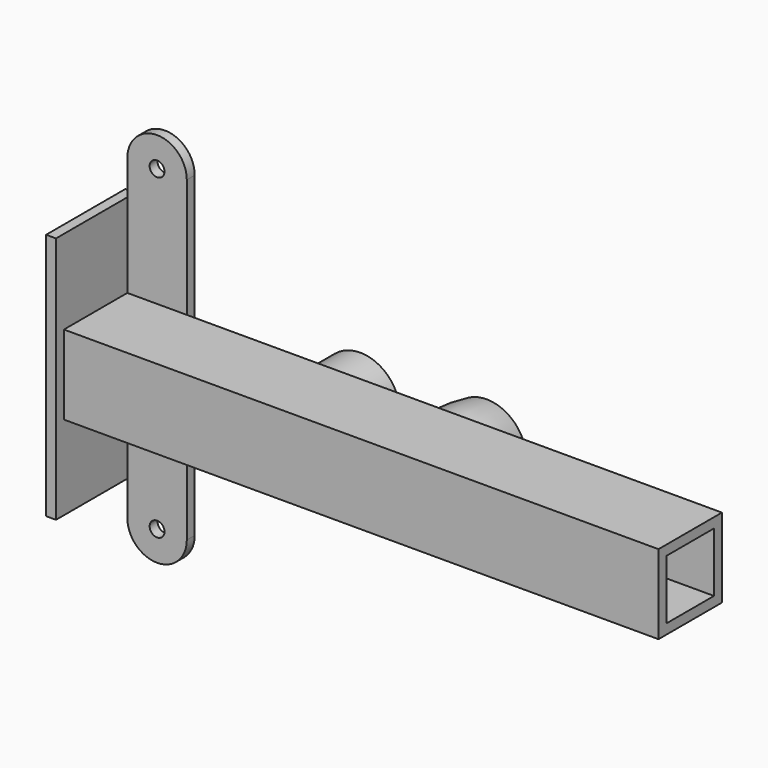
from build123d import *

# Parameters (mm, degrees)
F0_W     = 6.35
F0_H     = 158.75
F1_DEPTH = 63.5
F2_DEPTH = 6.35
F3_D     = 9.525
F4_W     = 50.8
F4_H     = 50.8
F4_W_2   = 38.0999987721
F4_H_2   = 38.0999987721
F5_DEPTH = 381
F10_W    = 1.5527821722
F10_H    = 0.6326977164


with BuildPart() as f1:
    # F0 (on Front) → F1 (new body)
    with BuildSketch(Plane.XZ):
        with Locations((-106.6967696309, 23.2238343884)):
            Rectangle(F0_W, F0_H)
    extrude(amount=F1_DEPTH)

    # F0 (on Front) → F2 (join)
    with BuildSketch(Plane.XZ):
        with BuildLine():
            Line((-103.5217696309, 102.5988343884), (-103.5217696309, -56.1511656116))
            Line((-103.5217696309, -56.1511656116), (-103.5217696309, -78.3761656116))
            ThreePointArc((-103.5217696309, -78.3761656116), (-84.4717696309, -97.4261656116), (-65.4217696309, -78.3761656116))
            Line((-65.4217696309, -78.3761656116), (-65.4217696309, 124.8238343884))
            ThreePointArc((-65.4217696309, 124.8238343884), (-84.4717696309, 143.8738343884), (-103.5217696309, 124.8238343884))
            Line((-103.5217696309, 124.8238343884), (-103.5217696309, 102.5988343884))
        make_face()
    extrude(amount=F2_DEPTH)

    # F3 (through all)
    with Locations(Plane(origin=(0, 0, 0), x_dir=(1, 0, 0), z_dir=(0, 1, 0))):
        with Locations((-84.4717696309, 78.3761656116), (-84.4717696309, -124.8238343884)):
            Hole(F3_D / 2)

    # F4 (on face) → F5 (join)
    with BuildSketch(Plane.YZ.offset(-103.5217696309)):
        with Locations((-31.75, 23.2238343884)):
            Rectangle(F4_W, F4_H)
        with Locations((-31.75, 23.2238343884)):
            Rectangle(F4_W_2, F4_H_2, mode=Mode.SUBTRACT)
    extrude(amount=F5_DEPTH)


with BuildPart() as f7:
    # F6 (on Top) → F7 (revolve)
    with BuildSketch(Plane.XY):
        Polygon((-25.4, 50.8), (-25.4, 0), (-10.9982, 0), (-10.9982, 7.0104), (-4.0005, 7.0104), (-4.0005, 43.7896), (-10.9982, 43.7896), (-10.9982, 50.8), align=None)
    revolve(axis=Axis((0, 54.4099446642, 0), (0, 1, 0)))


with BuildPart() as f9:
    # F8 (on Top) → F9 (revolve)
    with BuildSketch(Plane.XY):
        with BuildLine():
            ThreePointArc((55.6302515238, 50.8), (52.8362670833, 25.4), (55.6302515238, 0))
            Line((55.6302515238, 0), (70.0320515238, 0))
            Line((70.0320515238, 0), (70.0320515238, 7.0104))
            Line((70.0320515238, 7.0104), (77.0297515238, 7.0104))
            Line((77.0297515238, 7.0104), (77.0297515238, 43.7896))
            Line((77.0297515238, 43.7896), (70.0320515238, 43.7896))
            Line((70.0320515238, 43.7896), (70.0320515238, 50.8))
            Line((70.0320515238, 50.8), (55.6302515238, 50.8))
        make_face()
    revolve(axis=Axis((81.0302515238, 25.4, 0), (0, 1, 0)))


with BuildPart() as f11:
    # F10 (on Top) → F11 (revolve)
    with BuildSketch(Plane.XY):
        Polygon((-56.9705654834, 0), (-56.3355654834, 0), (-56.3355654834, 7.0104), (-56.9705654834, 7.0104), (-56.9705654834, 6.3754), (-62.6982654834, 6.3754), (-62.6982654834, 7.0104), (-63.3332654834, 7.0104), (-63.3332654834, 0), (-62.6982654834, 0), (-62.6982654834, 0.635), (-56.9705654834, 0.635), align=None)
    revolve(axis=Axis((-52.3350654834, 5.8954050789, 0), (0, 1, 0)))


with BuildPart() as f11b:
    # F10 (on Top) → F11, piece 2 (revolve)
    with BuildSketch(Plane.XY):
        with Locations((-57.1119565695, 8.0892900005)):
            Rectangle(F10_W, F10_H)
    revolve(axis=Axis((-52.3350654834, 5.8954050789, 0), (0, 1, 0)))


solid = Compound([f1.part, f7.part, f9.part, f11.part, f11b.part])
